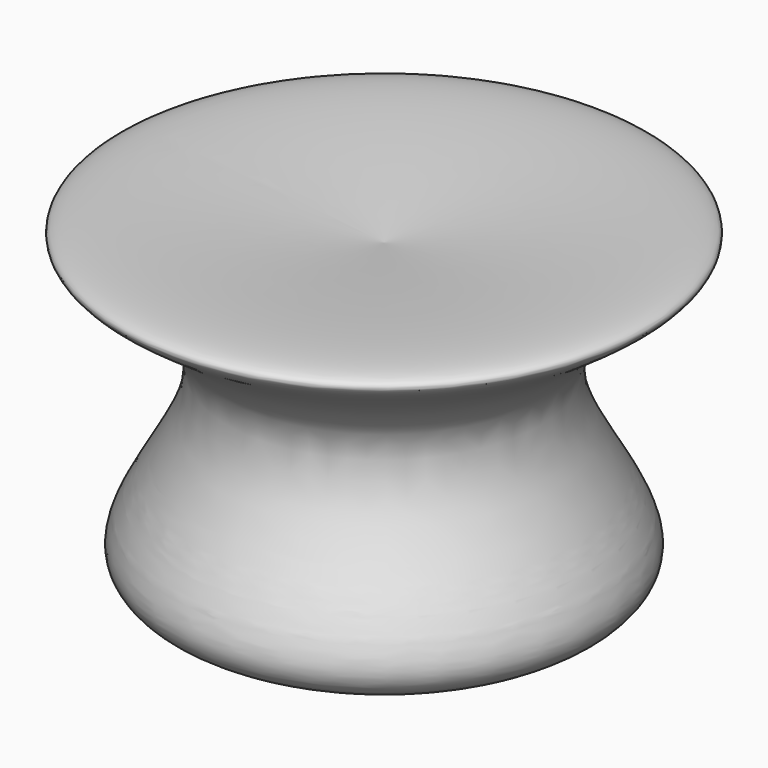
from build123d import *


with BuildPart() as f1:
    # F0 (on Front) → F1 (revolve)
    with BuildSketch(Plane.XZ):
        with BuildLine():
            add(Edge.make_bspline(
                [(0, 0), (-18.143944024, 0.8541179354), (-52.5836788215, 2.4753528303), (-12.5870709967, 40.4042028467), (-63.6930379257, 61.9933634392), (-23.1568237103, 57.6931082857), (0, 55.2365332842)],
                knots=[0, 0, 0, 0, 0.2635406828, 0.5002369502, 0.7145040536, 1, 1, 1, 1], degree=3))
            Line((0, 0), (0, 55.2365332842))
        make_face()
    revolve(axis=Axis((0, 0, 27.6182666421), (0, 0, -1)))


solid = f1.part
